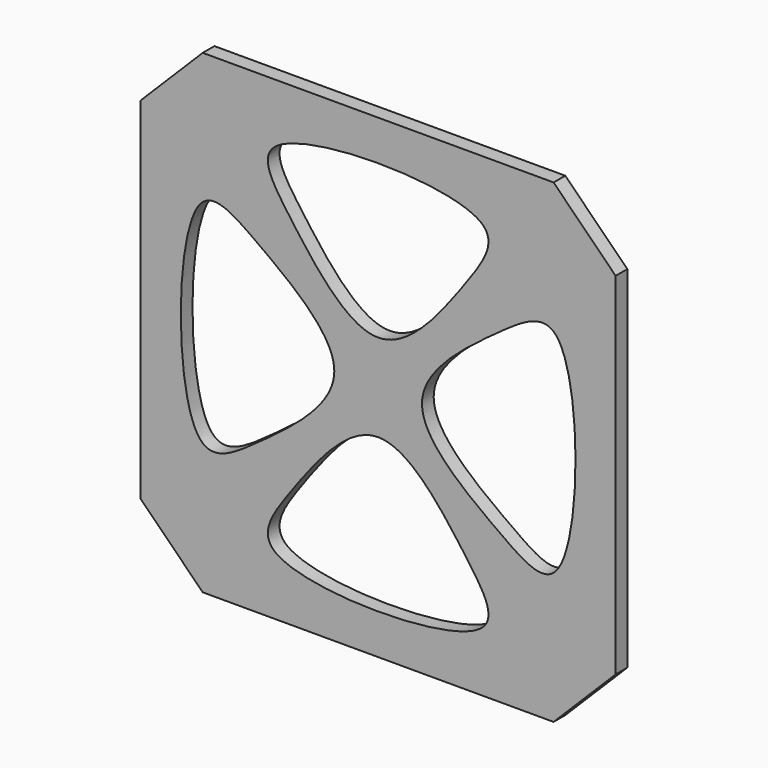
from build123d import *

# Parameters (mm, degrees)
F1_DEPTH = 5


with BuildPart() as f1:
    # F0 (on Front) → F1 (new body)
    with BuildSketch(Plane.XZ):
        Polygon((-60, 81.2132034356), (-81.2132034356, 60), (-81.2132034356, -60), (-60, -81.2132034356), (60, -81.2132034356), (81.2132034356, -60), (81.2132034356, 60), (60, 81.2132034356), align=None)
        with BuildLine():
            add(Edge.make_bspline(
                [(-61.2132034356, 35), (-56.6662513891, 40.9820452962), (-39.9006301336, 29.2838425924), (-0.5174682924, 0), (-39.9006301336, -29.2838425924), (-69.5918170198, -50.0008513699), (-69.5918170198, 23.9769574282), (-61.2132034356, 35)],
                knots=[0, 0, 0, 0, 0.1509900753, 0.3608862065, 0.5707823376, 0.721772413, 1, 1, 1, 1], degree=3))
        make_face(mode=Mode.SUBTRACT)
        with BuildLine():
            add(Edge.make_bspline(
                [(-35, -61.2132034356), (-40.9820452962, -56.6662513891), (-29.2838425924, -39.9006301336), (0, -0.5174682924), (29.2838425924, -39.9006301336), (50.0008513699, -69.5918170198), (-23.9769574282, -69.5918170198), (-35, -61.2132034356)],
                knots=[0, 0, 0, 0, 0.1509900753, 0.3608862065, 0.5707823376, 0.721772413, 1, 1, 1, 1], degree=3))
        make_face(mode=Mode.SUBTRACT)
        with BuildLine():
            add(Edge.make_bspline(
                [(61.2132034356, 35), (56.6662513891, 40.9820452962), (39.9006301336, 29.2838425924), (0.5174682924, 0), (39.9006301336, -29.2838425924), (69.5918170198, -50.0008513699), (69.5918170198, 23.9769574282), (61.2132034356, 35)],
                knots=[0, 0, 0, 0, 0.1509900753, 0.3608862065, 0.5707823376, 0.721772413, 1, 1, 1, 1], degree=3))
        make_face(mode=Mode.SUBTRACT)
        with BuildLine():
            add(Edge.make_bspline(
                [(-35, 61.2132034356), (-40.9820452962, 56.6662513891), (-29.2838425924, 39.9006301336), (0, 0.5174682924), (29.2838425924, 39.9006301336), (50.0008513699, 69.5918170198), (-23.9769574282, 69.5918170198), (-35, 61.2132034356)],
                knots=[0, 0, 0, 0, 0.1509900753, 0.3608862065, 0.5707823376, 0.721772413, 1, 1, 1, 1], degree=3))
        make_face(mode=Mode.SUBTRACT)
    extrude(amount=F1_DEPTH)


solid = f1.part
